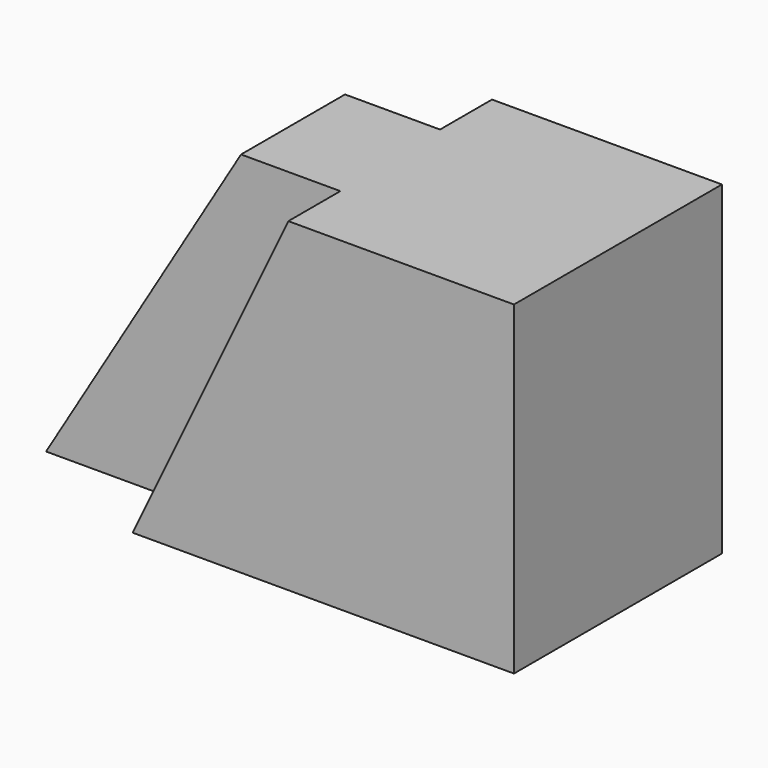
from build123d import *

# Parameters (mm, degrees)
F1_DEPTH = 25.4
F3_DEPTH = 6.35
F5_DEPTH = 25.401
F7_DEPTH = 6.35


with BuildPart() as f1:
    # F0 (on Front) → F1 (new body)
    with BuildSketch(Plane.XZ):
        Polygon((21.227144, 31.75), (0, 31.75), (0, 0), (37.555713, 0), align=None)
        Polygon((34.47143, 31.75), (21.227144, 31.75), (37.555713, 0), (50.8, 0), align=None)
        Polygon((50.8, 31.75), (34.47143, 31.75), (50.8, 0), align=None)
    extrude(amount=-F1_DEPTH)

    # F2 (on Front) → F3 (cut, symmetric)
    with BuildSketch(Plane.XZ):
        Polygon((13.543111, 0), (28.911175, 32.08084), (0, 32.08084), (0, 0), align=None)
    extrude(amount=F3_DEPTH, both=True, mode=Mode.SUBTRACT)

    # F4 (on face) → F5 (cut, through all)
    with BuildSketch(Plane(origin=(0, 25.4, 0), x_dir=(-1, 0, 0), z_dir=(0, 1, 0))):
        Polygon((0, 31.75), (-19.05, 31.75), (0, 0), align=None)
    extrude(amount=-F5_DEPTH, mode=Mode.SUBTRACT)

    # F6 (on face) → F7 (cut, symmetric)
    with BuildSketch(Plane(origin=(0, 25.4, 0), x_dir=(-1, 0, 0), z_dir=(0, 1, 0))):
        Polygon((-19.05, 31.75), (-28.334875, 31.75), (-9.284875, 0), (0, 0), align=None)
    extrude(amount=F7_DEPTH, both=True, mode=Mode.SUBTRACT)


solid = f1.part
